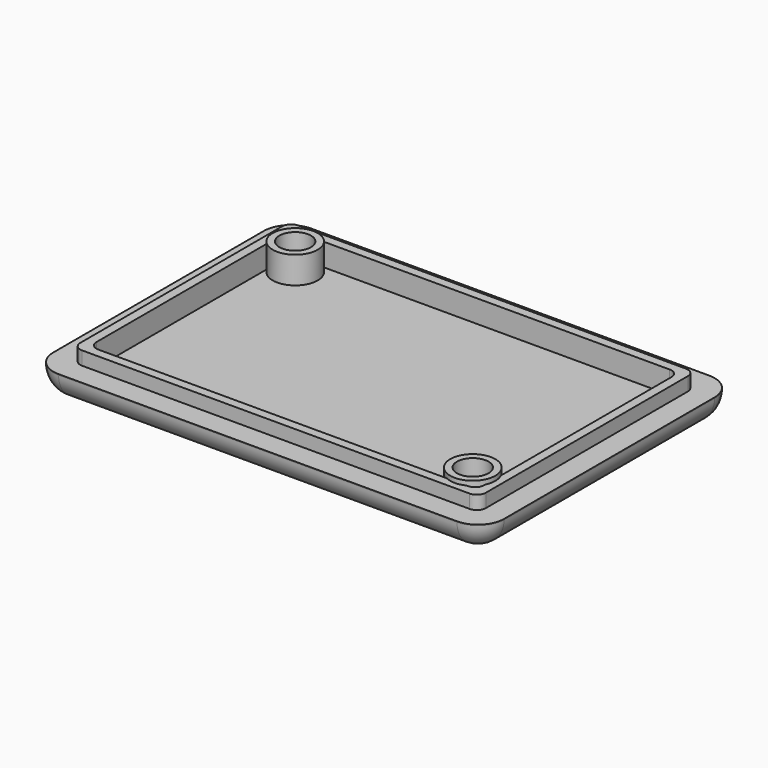
from build123d import *

# Parameters (mm, degrees)
SKETCH_W        = 50
SKETCH_H        = 35
PAD_DEPTH       = 3
SKETCH002_W     = 45
SKETCH002_H     = 30
PAD001_DEPTH    = 1.5
SKETCH003_W     = 43
SKETCH003_H     = 28
POCKET001_DEPTH = 2.5
FILLET_R        = 2.9
FILLET001_R     = 1
SKETCH005_R     = 2.5
PAD002_DEPTH    = 5
SKETCH004_R     = 2.5
PAD003_DEPTH    = 5
SKETCH006_R     = 1.75
POCKET_DEPTH    = 5
SKETCH007_R     = 1.75
POCKET002_DEPTH = 5
CHAMFER_SIZE    = 1.5
CHAMFER001_SIZE = 1.5


with BuildPart() as part:
    # Sketch → Pad (new body)
    with BuildSketch(Plane.XY):
        Rectangle(SKETCH_W, SKETCH_H)
    extrude(amount=PAD_DEPTH)

    # Sketch002 → Pad001 (join)
    with BuildSketch(Plane.XY.offset(3)):
        Rectangle(SKETCH002_W, SKETCH002_H)
    extrude(amount=PAD001_DEPTH)

    # Sketch003 (on Face11 of Pad001) → Pocket001 (cut)
    with BuildSketch(Plane.XY.offset(4.5)):
        Rectangle(SKETCH003_W, SKETCH003_H)
    extrude(amount=-POCKET001_DEPTH, mode=Mode.SUBTRACT)

    # Fillet
    fillet_edges = [part.edges().sort_by_distance(p)[0] for p in [
        (0, 17.5, 0),
        (-25, 17.5, 1.5),
        (-25, 0, 0),
        (-25, -17.5, 1.5),
        (0, -17.5, 0),
        (25, -17.5, 1.5),
        (25, 0, 0),
        (25, 17.5, 1.5),
    ]]
    fillet(fillet_edges, radius=FILLET_R)

    # Fillet001
    fillet001_edges = [part.edges().sort_by_distance(p)[0] for p in [
        (-21.5, -14, 3.25),
        (22.5, -15, 3.75),
        (22.5, 15, 3.75),
        (-22.5, 15, 3.75),
        (-22.5, -15, 3.75),
        (21.5, 14, 3.25),
        (-21.5, 14, 3.25),
        (21.5, -14, 3.25),
    ]]
    fillet(fillet001_edges, radius=FILLET001_R)

    # Sketch005 → Pad002 (join)
    with BuildSketch(Plane.XY):
        with Locations((-19.25, 11.75)):
            Circle(SKETCH005_R)
    extrude(amount=PAD002_DEPTH)

    # Sketch004 (on Face35 of Fillet001) → Pad003 (join)
    with BuildSketch(Plane(origin=(0, 0, 0), x_dir=(1, 0, 0), z_dir=(0, 0, -1))):
        with Locations((19.25, 11.75)):
            Circle(SKETCH004_R)
    extrude(amount=-PAD003_DEPTH)

    # Sketch006 (on Face48 of Pad003) → Pocket (cut)
    with BuildSketch(Plane(origin=(0, 0, 0), x_dir=(1, 0, 0), z_dir=(0, 0, -1))):
        with Locations((-19.25, -11.75)):
            Circle(SKETCH006_R)
    extrude(amount=-POCKET_DEPTH, mode=Mode.SUBTRACT)

    # Sketch007 (on Face48 of Pocket) → Pocket002 (cut)
    with BuildSketch(Plane(origin=(0, 0, 0), x_dir=(1, 0, 0), z_dir=(0, 0, -1))):
        with Locations((19.25, 11.75)):
            Circle(SKETCH007_R)
    extrude(amount=-POCKET002_DEPTH, mode=Mode.SUBTRACT)

    # Chamfer
    chamfer_edges = [part.edges().sort_by_distance(p)[0] for p in [
        (-21, 11.75, 0),
    ]]
    chamfer(chamfer_edges, length=CHAMFER_SIZE)

    # Chamfer001
    chamfer001_edges = [part.edges().sort_by_distance(p)[0] for p in [
        (17.5, -11.75, 0),
    ]]
    chamfer(chamfer001_edges, length=CHAMFER001_SIZE)


solid = part.part
